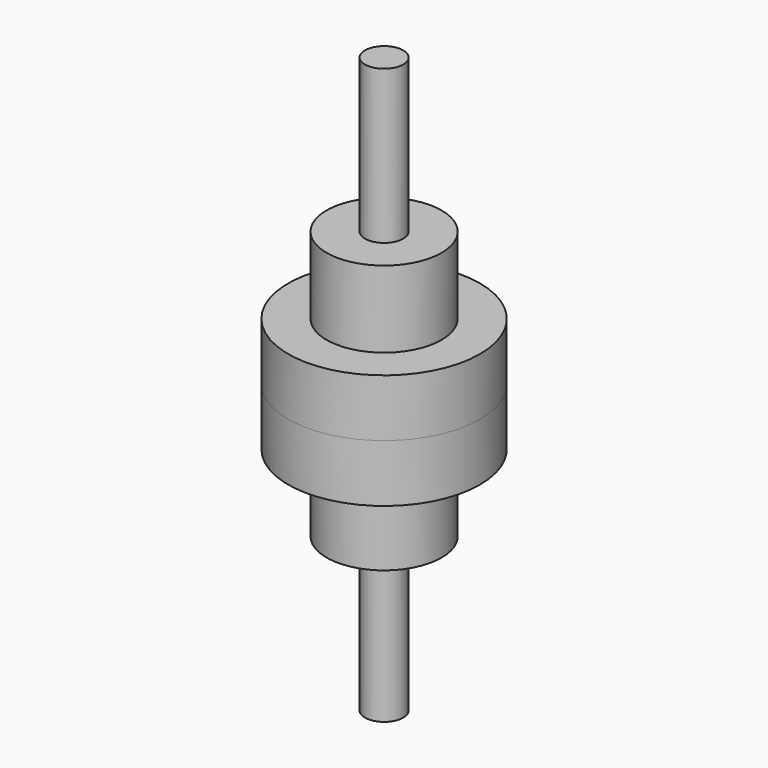
from build123d import *

# Parameters (mm, degrees)
F0_R     = 10
F1_DEPTH = 80
F2_R     = 30
F3_DEPTH = 40
F4_R     = 50
F5_DEPTH = 30


with BuildPart() as f1:
    # F0 (on Top) → F1 (new body)
    with BuildSketch(Plane.XY):
        Circle(F0_R)
    extrude(amount=F1_DEPTH)

    # F2 (on face) → F3 (join)
    with BuildSketch(Plane.XY.offset(80)):
        Circle(F2_R)
    extrude(amount=F3_DEPTH)

    # F4 (on face) → F5 (join)
    with BuildSketch(Plane.XY.offset(120)):
        Circle(F4_R)
    extrude(amount=F5_DEPTH)

    # F6: F1 across face


with BuildPart() as f1_1:
    add(f1.part)
    add(f1.part.mirror(Plane.XY.offset(150)))


solid = f1_1.part
